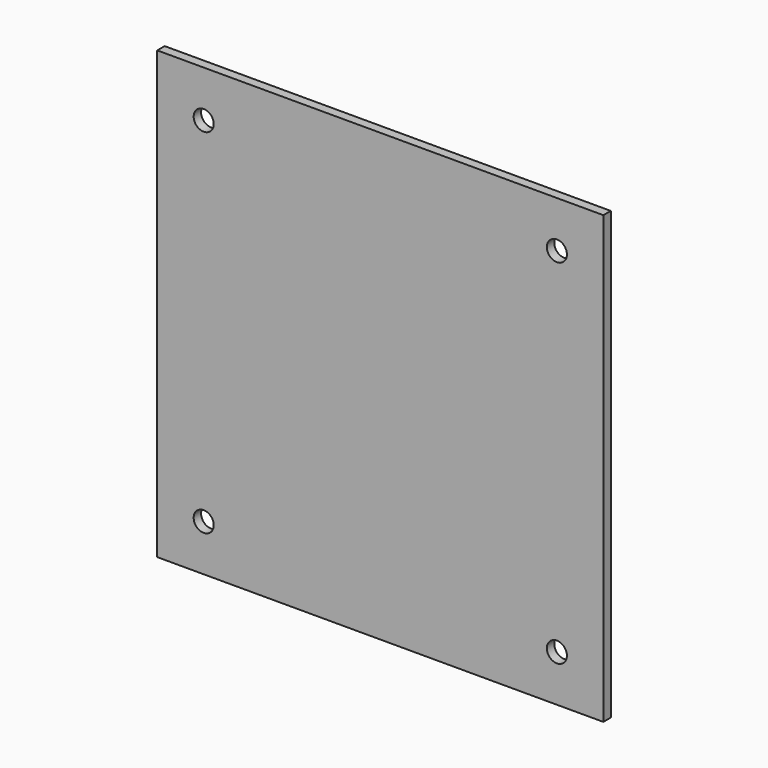
from build123d import *

# Parameters (mm, degrees)
F1_W     = 152.4
F1_H     = 152.4
F1_R     = 3.429
F2_DEPTH = 3.175


with BuildPart() as f2:
    # F1 (on face) → F2 (new body)
    with BuildSketch(Plane.XZ):
        with Locations((76.2, 76.2)):
            Rectangle(F1_W, F1_H)
        with Locations((15.875, 15.875)):
            Circle(F1_R, mode=Mode.SUBTRACT)
        with Locations((136.525, 15.875)):
            Circle(F1_R, mode=Mode.SUBTRACT)
        with Locations((15.875, 136.525)):
            Circle(F1_R, mode=Mode.SUBTRACT)
        with Locations((136.525, 136.525)):
            Circle(F1_R, mode=Mode.SUBTRACT)
    extrude(amount=F2_DEPTH)


solid = f2.part
